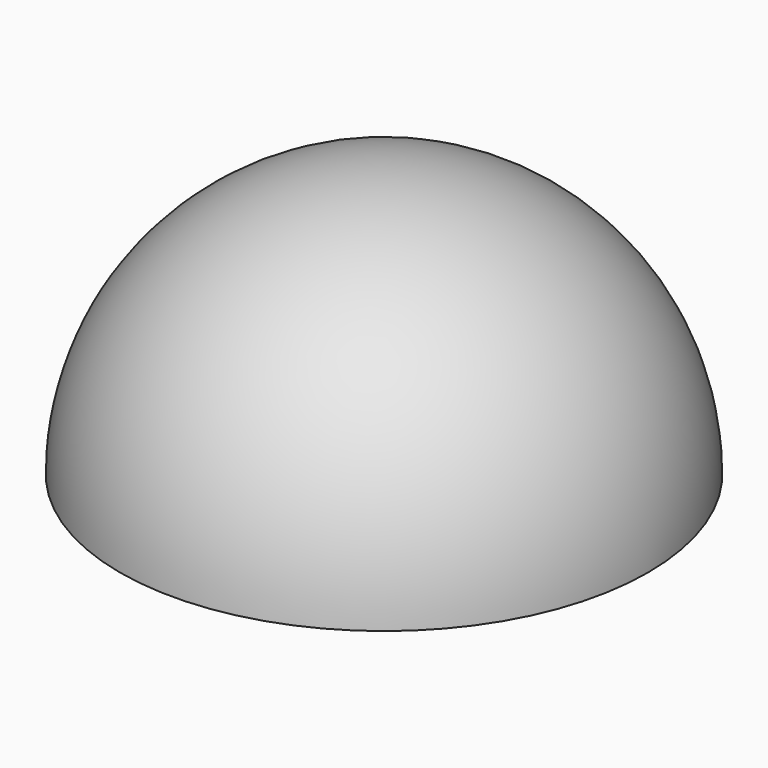
from build123d import *

# Parameters (mm, degrees)
F1_ANGLE = 180


with BuildPart() as f1:
    # F0 (on Top) → F1 (revolve)
    with BuildSketch(Plane.XY):
        with BuildLine():
            ThreePointArc((4.75, 0), (0, 4.75), (-4.75, 0))
            Line((-4.75, 0), (4.75, 0))
        make_face()
    revolve(axis=Axis((0, 0, 0), (1, 0, 0)), revolution_arc=F1_ANGLE)


solid = f1.part
